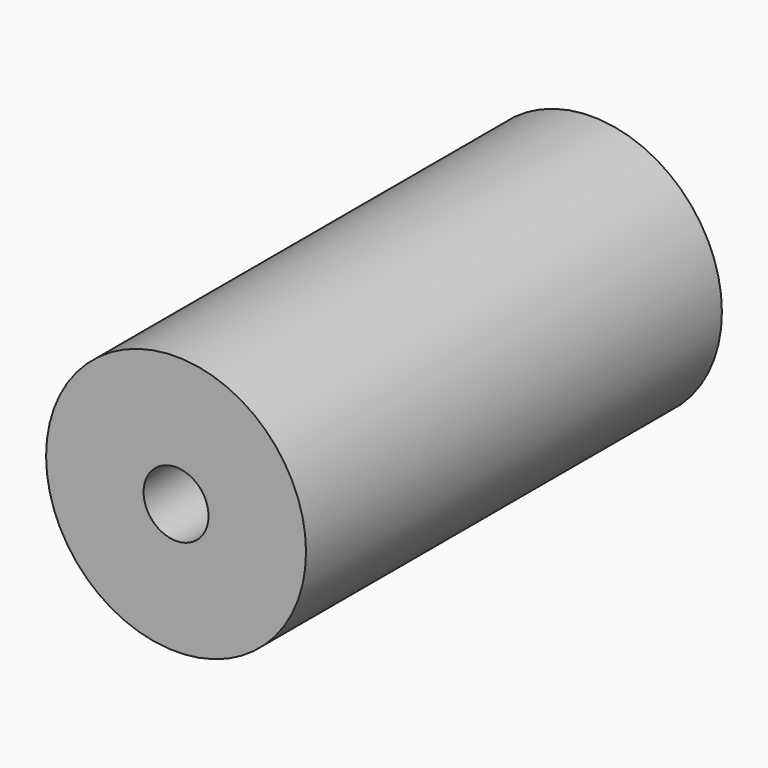
from build123d import *

# Parameters (mm, degrees)
F0_R     = 5
F1_DEPTH = 20
F2_R     = 1.25
F3_DEPTH = 20.001
F5_DEPTH = 10


with BuildPart() as f1:
    # F0 (on Front) → F1 (new body)
    with BuildSketch(Plane.XZ):
        Circle(F0_R)
    extrude(amount=F1_DEPTH)

    # F2 (on face) → F3 (cut, through all)
    with BuildSketch(Plane(origin=(0, 0, 0), x_dir=(-1, 0, 0), z_dir=(0, 1, 0))):
        Circle(F2_R)
    extrude(amount=-F3_DEPTH, mode=Mode.SUBTRACT)

    # F4 (on Front) → F5 (cut)
    with BuildSketch(Plane.XZ):
        Polygon((1.674316, 2.9), (-1.674316, 2.9), (-3.348632, 0), (-1.674316, -2.9), (1.674316, -2.9), (3.348632, 0), align=None)
    extrude(amount=F5_DEPTH, mode=Mode.SUBTRACT)


solid = f1.part
